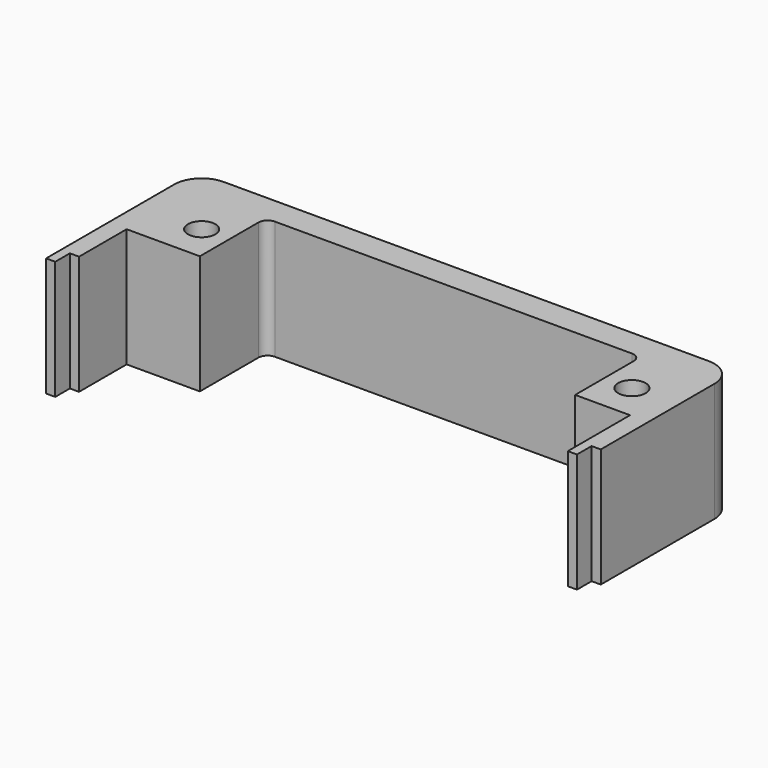
from build123d import *

# Parameters (mm, degrees)
F0_R     = 1.5
F1_DEPTH = 13


with BuildPart() as f1:
    # F0 (on Top) → F1 (new body)
    with BuildSketch(Plane.XY):
        with BuildLine():
            ThreePointArc((-24.429673, 7.496156), (-24.13678, 8.203263), (-23.429673, 8.496156))
            Line((-23.429673, 8.496156), (15.570327, 8.496156))
            ThreePointArc((15.570327, 8.496156), (16.277434, 8.203263), (16.570327, 7.496156))
            Line((16.570327, 7.496156), (16.570327, -0.503844))
            Line((16.570327, -0.503844), (22.570327, -0.503844))
            Line((22.570327, -0.503844), (22.570327, -9.003844))
            Line((22.570327, -9.003844), (23.570327, -9.003844))
            Line((23.570327, -9.003844), (23.570327, -7.003844))
            Line((23.570327, -7.003844), (24.570327, -7.003844))
            Line((24.570327, -7.003844), (24.570327, 8.496156))
            ThreePointArc((24.570327, 8.496156), (23.691647, 10.617477), (21.570327, 11.496156))
            Line((21.570327, 11.496156), (-31.429673, 11.496156))
            ThreePointArc((-31.429673, 11.496156), (-33.550993, 10.617477), (-34.429673, 8.496156))
            Line((-34.429673, 8.496156), (-34.429673, -9.003844))
            Line((-34.429673, -9.003844), (-33.429673, -9.003844))
            Line((-33.429673, -9.003844), (-33.429673, -7.003844))
            Line((-33.429673, -7.003844), (-32.429673, -7.003844))
            Line((-32.429673, -7.003844), (-32.429673, -0.503844))
            Line((-32.429673, -0.503844), (-24.429673, -0.503844))
            Line((-24.429673, -0.503844), (-24.429673, 7.496156))
        make_face()
        with Locations((-27.429673, 3.496156)):
            Circle(F0_R, mode=Mode.SUBTRACT)
        with Locations((19.570327, 3.496156)):
            Circle(F0_R, mode=Mode.SUBTRACT)
    extrude(amount=F1_DEPTH)


solid = f1.part
